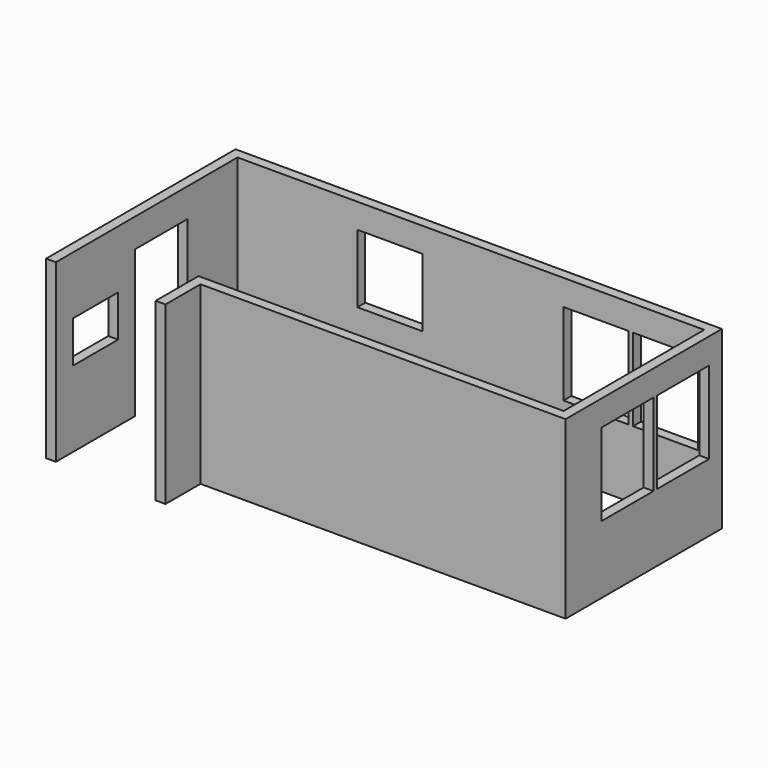
from build123d import *

# Parameters (mm, degrees)
F0_W     = 136.525
F0_H     = 1371.6
F1_DEPTH = 2438.4
F2_W     = 901.7
F2_H     = 946.15
F2_H_2   = 1143
F3_DEPTH = 136.525
F4_W     = 901.7
F4_H     = 1143
F5_DEPTH = 136.525
F6_W     = 914.4
F6_H     = 400.05
F7_DEPTH = 136.525
F8_W     = 787.4
F8_H     = 577.85
F9_DEPTH = 136.525


with BuildPart() as f1:
    # F0 (on Top) → F1 (new body)
    with BuildSketch(Plane.XY):
        Polygon((-1770.695876, 1530.107668), (-1770.695876, 2393.707668), (4706.304124, 2393.707668), (4706.304124, -44.692332), (-360.995876, -44.692332), (-360.995876, -787.642332), (-224.470876, -787.642332), (-224.470876, -181.217332), (4842.829124, -181.217332), (4842.829124, 2530.232668), (-1907.220876, 2530.232668), (-1907.220876, 1530.107668), align=None)
        with Locations((-1838.958376, -70.092332)):
            Rectangle(F0_W, F0_H)
    extrude(amount=F1_DEPTH)

    # F2 (on face) → F3 (cut, through all)
    with BuildSketch(Plane.XZ.offset(-2393.707668)):
        with Locations((343.854124, 1622.425)):
            Rectangle(F2_W, F2_H)
        with Locations((3204.529124, 1511.3)):
            Rectangle(F2_W, F2_H_2)
        with Locations((4169.729124, 1511.3)):
            Rectangle(F2_W, F2_H_2)
    extrude(amount=-F3_DEPTH, mode=Mode.SUBTRACT)

    # F4 (on face) → F5 (cut, through all)
    with BuildSketch(Plane(origin=(4706.304124, 0, 0), x_dir=(0, -1, 0), z_dir=(-1, 0, 0))):
        with Locations((-1857.132668, 1511.3)):
            Rectangle(F4_W, F4_H)
        with Locations((-891.932668, 1511.3)):
            Rectangle(F4_W, F4_H)
    extrude(amount=-F5_DEPTH, mode=Mode.SUBTRACT)

    # F6 (on face) → F7 (join)
    with BuildSketch(Plane(origin=(-1907.220876, 0, 0), x_dir=(0, -1, 0), z_dir=(-1, 0, 0))):
        with Locations((-1072.907668, 2238.375)):
            Rectangle(F6_W, F6_H)
    extrude(amount=-F7_DEPTH)

    # F8 (on face) → F9 (cut, through all)
    with BuildSketch(Plane(origin=(-1907.220876, 0, 0), x_dir=(0, -1, 0), z_dir=(-1, 0, 0))):
        with Locations((70.092332, 1343.025)):
            Rectangle(F8_W, F8_H)
    extrude(amount=-F9_DEPTH, mode=Mode.SUBTRACT)


solid = f1.part
